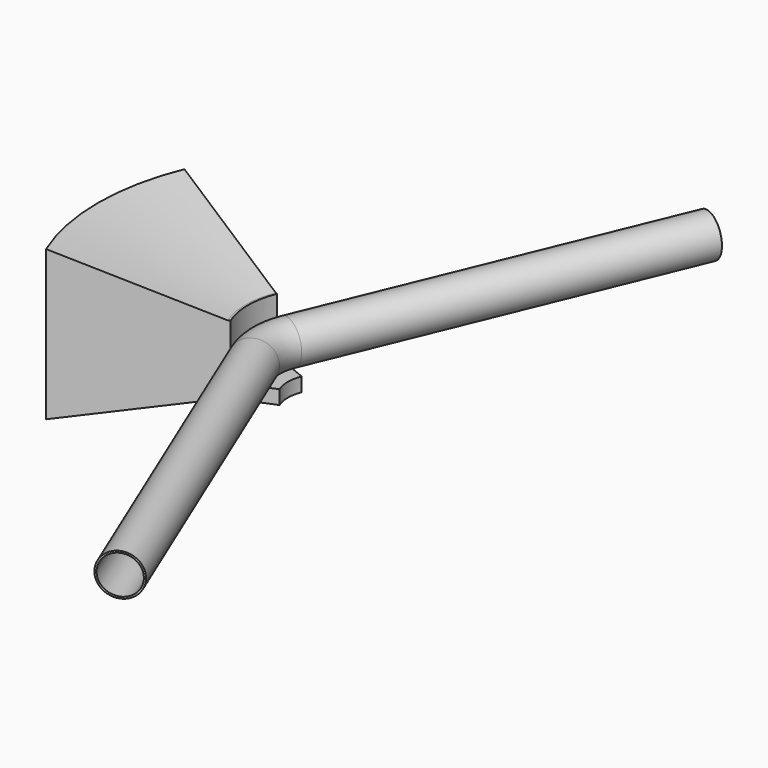
from build123d import *

# Parameters (mm, degrees)
F0_R          = 84.15
F0_R_2        = 77.05
F1_ANGLE_BACK = 22.5
F1_ANGLE      = 45
F2_R          = 84.15
F2_R_2        = 77.05
F3_DEPTH      = 1500
F4_R          = 84.15
F4_R_2        = 77.05
F5_DEPTH      = 1500
F6_R          = 77.05
F7_ANGLE_BACK = 22.5
F7_ANGLE      = 45
F9_ANGLE_BACK = 22.5
F9_ANGLE      = 45


with BuildPart() as f1:
    # F0 (on Front) → F1 (revolve)
    with BuildSketch(Plane.XZ, mode=Mode.PRIVATE) as f1_sk:
        Circle(F0_R)
        Circle(F0_R_2, mode=Mode.SUBTRACT)
    revolve(f1_sk.sketch.rotate(Axis((229, 0, -0.4341155291), (0, 0, -1)), -F1_ANGLE_BACK), axis=Axis((229, 0, -0.4341155291), (0, 0, -1)), revolution_arc=F1_ANGLE)

    # F2 (on face) → F3 (join)
    with BuildSketch(Plane(origin=(33.5362735541, -80.9637264459, 0), x_dir=(0.9238795325, 0.3826834324, 0), z_dir=(0.3826834324, -0.9238795325, 0))):
        with Locations((-17.4315870549, 0)):
            Circle(F2_R)
        with Locations((-17.4315870549, 0)):
            Circle(F2_R_2, mode=Mode.SUBTRACT)
    extrude(amount=F3_DEPTH)

    # F4 (on face) → F5 (join)
    with BuildSketch(Plane(origin=(33.5362735541, 80.9637264459, 0), x_dir=(-0.9238795325, 0.3826834324, 0), z_dir=(0.3826834324, 0.9238795325, 0))):
        with Locations((17.4315870549, 0)):
            Circle(F4_R)
        with Locations((17.4315870549, 0)):
            Circle(F4_R_2, mode=Mode.SUBTRACT)
    extrude(amount=F5_DEPTH)

    # F6 (on Front) → F7 (revolve, cut)
    with BuildSketch(Plane.XZ, mode=Mode.PRIVATE) as f7_sk:
        Circle(F6_R)
    revolve(f7_sk.sketch.rotate(Axis((229, 0, -9.7871497273), (0, 0, 1)), -F7_ANGLE_BACK), axis=Axis((229, 0, -9.7871497273), (0, 0, 1)), revolution_arc=F7_ANGLE, mode=Mode.SUBTRACT)


with BuildPart() as f9:
    # F8 (on Front) → F9 (revolve)
    with BuildSketch(Plane.XZ, mode=Mode.PRIVATE) as f9_sk:
        with BuildLine():
            ThreePointArc((0, -84), (-70.9269883816, -45.0040255879), (-76, 35.77708764))
            Line((-76, 35.77708764), (-76, 134.1918259859))
            Line((-76, 134.1918259859), (-84, 134.1918259859))
            Line((-84, 134.1918259859), (-676, 300))
            Line((-676, 300), (-676, -300))
            Line((-676, -300), (-84, -139.79357481))
            Line((-84, -139.79357481), (84, -139.79357481))
            Line((84, -139.79357481), (84, -84))
            Line((84, -84), (0, -84))
        make_face()
    revolve(f9_sk.sketch.rotate(Axis((229, 0, -6.6939145327), (0, 0, -1)), -F9_ANGLE_BACK), axis=Axis((229, 0, -6.6939145327), (0, 0, -1)), revolution_arc=F9_ANGLE)


solid = Compound([f1.part, f9.part])
